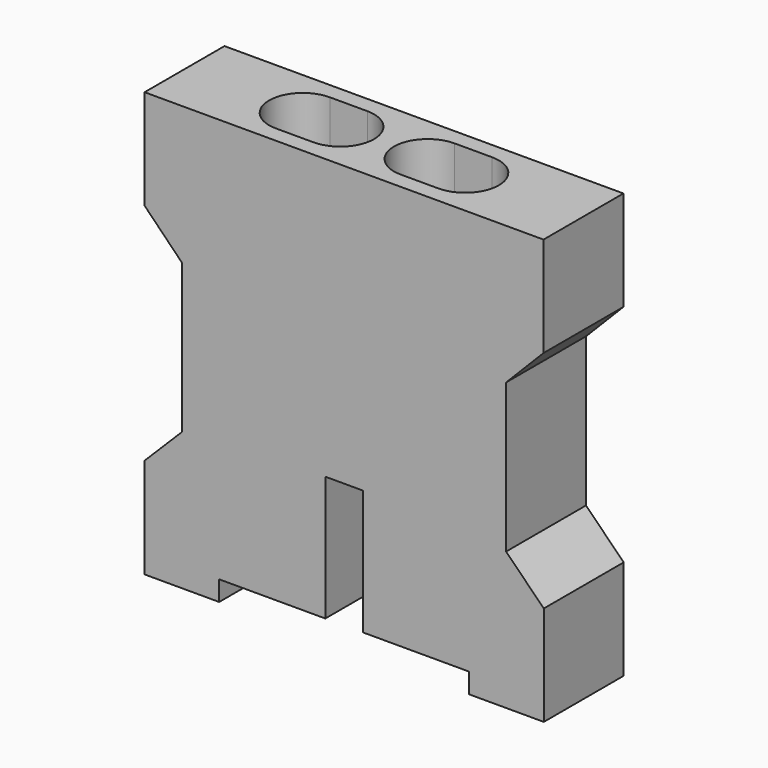
from build123d import *

# Parameters (mm, degrees)
PAD016_DEPTH    = 8
SKETCH023_R     = 2.5
POCKET005_DEPTH = 2
SKETCH024_R     = 2.7
POCKET006_DEPTH = 32.401
POCKET007_DEPTH = 20


with BuildPart() as part:
    # Sketch022 → Pad016 (new body)
    with BuildSketch(Plane.XZ):
        Polygon((-16, 4), (-10, 4), (-10, 5.6), (-1.5, 5.6), (-1.5, 15.6), (1.5, 15.6), (1.5, 5.6), (10, 5.6), (10, 4), (16, 4), (16, 12), (12.975, 15.025), (12.975, 26.950205), (15.975, 30), (15.975, 38), (-15.975, 38), (-15.975, 30), (-12.975, 26.950205), (-12.975, 15.025), (-16, 12), align=None)
    extrude(amount=PAD016_DEPTH)

    # Sketch023 (on Face7 of Pad016) → Pocket005 (cut)
    with BuildSketch(Plane(origin=(0, 0, 5.6), x_dir=(1, 0, 0), z_dir=(0, 0, -1))):
        with Locations((-5, 4)):
            Circle(SKETCH023_R)
        with Locations((5, 4)):
            Circle(SKETCH023_R)
    extrude(amount=-POCKET005_DEPTH, mode=Mode.SUBTRACT)

    # Sketch024 (on Face11 of Pocket005) → Pocket006 (cut, through all)
    with BuildSketch(Plane(origin=(0, 0, 5.6), x_dir=(1, 0, 0), z_dir=(0, 0, -1))):
        with Locations((-5, 4)):
            Circle(SKETCH024_R)
        with Locations((5, 4)):
            Circle(SKETCH024_R)
    extrude(amount=-POCKET006_DEPTH, mode=Mode.SUBTRACT)

    # Sketch025 (on Face19 of Pocket006) → Pocket007 (cut)
    with BuildSketch(Plane(origin=(0, 0, 38), x_dir=(-1, 0, 0), z_dir=(0, 0, 1))):
        with BuildLine():
            ThreePointArc((-6.5, 6.7), (-9.2, 4), (-6.5, 1.3))
            Line((-6.5, 1.3), (-3.5, 1.3))
            ThreePointArc((-3.5, 1.3), (-0.8, 4), (-3.5, 6.7))
            Line((-3.5, 6.7), (-6.5, 6.7))
        make_face()
        with BuildLine():
            ThreePointArc((3.5, 6.7), (0.8, 4), (3.5, 1.3))
            Line((3.5, 1.3), (6.5, 1.3))
            ThreePointArc((6.5, 1.3), (9.2, 4), (6.5, 6.7))
            Line((6.5, 6.7), (3.5, 6.7))
        make_face()
    extrude(amount=-POCKET007_DEPTH, mode=Mode.SUBTRACT)


with BuildPart() as part_1:
    # Body010 placement: moved
    add(part.part.moved(Location((0, -787, 0))))


solid = part_1.part
